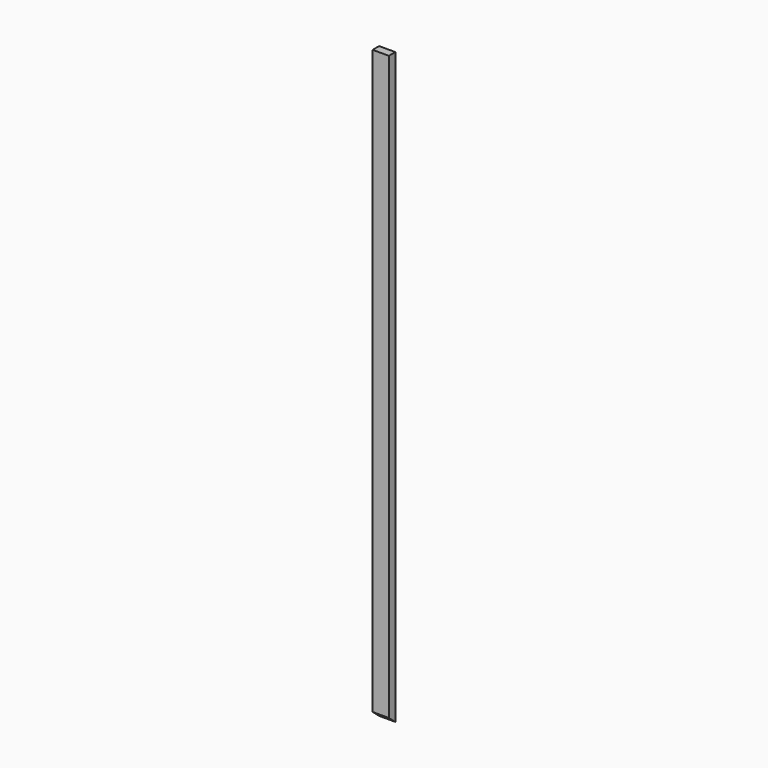
from build123d import *

# Parameters (mm, degrees)
F0_W     = 101.6
F0_H     = 50.8
F1_DEPTH = 1850
F3_DEPTH = 101.601


with BuildPart() as f1:
    # F0 (on Top) → F1 (new body, symmetric)
    with BuildSketch(Plane.XY):
        Rectangle(F0_W, F0_H)
    extrude(amount=F1_DEPTH, both=True)

    # F2 (on face) → F3 (cut, through all)
    with BuildSketch(Plane.YZ.offset(50.8)):
        Polygon((25.4, -1880.026198), (25.4, -1850), (-25.4, -1850), (-25.4, -1807.373739), (-79.596624, -1807.373739), (-79.596624, -1880.026198), align=None)
        Polygon((-25.4, -1850), (25.4, -1850), (-25.4, -1807.373739), align=None)
    extrude(amount=-F3_DEPTH, mode=Mode.SUBTRACT)


solid = f1.part
